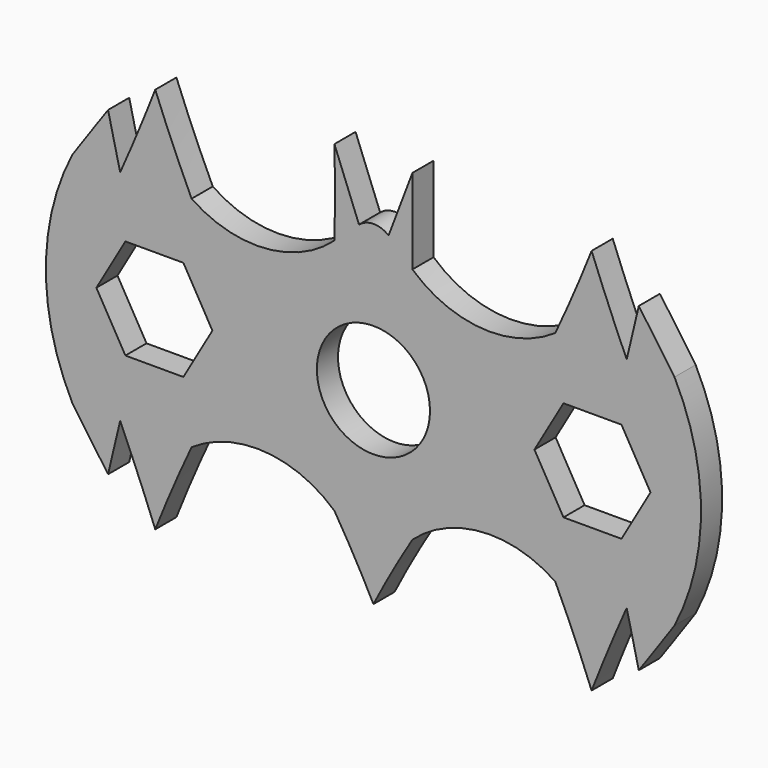
from build123d import *

# Parameters (mm, degrees)
F0_R     = 10.873019
F1_DEPTH = 5.08


with BuildPart() as f1:
    # F0 (on Front) → F1 (new body)
    with BuildSketch(Plane.XZ):
        with BuildLine():
            ThreePointArc((-7.49769, -22.859156), (-3.613745, -29.461579), (0, -36.215678))
            ThreePointArc((0, -36.215678), (3.613745, -29.461579), (7.49769, -22.859156))
            ThreePointArc((7.49769, -22.859156), (20.904776, -17.20558), (34.945954, -21.021102))
            ThreePointArc((34.945954, -21.021102), (38.568356, -29.052358), (41.93056, -37.195973))
            ThreePointArc((41.93056, -37.195973), (45.206649, -29.069506), (48.670087, -21.021102))
            ThreePointArc((48.670087, -21.021102), (49.842619, -25.920576), (50.998289, -30.824054))
            ThreePointArc((50.998289, -30.824054), (54.439372, -25.929613), (57.860356, -21.021102))
            ThreePointArc((57.860356, -21.021102), (62.956488, 0), (57.860356, 21.021102))
            ThreePointArc((57.860356, 21.021102), (54.439372, 25.929613), (50.998289, 30.824054))
            ThreePointArc((50.998289, 30.824054), (49.842619, 25.920576), (48.670087, 21.021102))
            ThreePointArc((48.670087, 21.021102), (45.206649, 29.069506), (41.93056, 37.195973))
            ThreePointArc((41.93056, 37.195973), (38.568356, 29.052358), (34.945954, 21.021102))
            ThreePointArc((34.945954, 21.021102), (20.904776, 17.20558), (7.49769, 22.859156))
            Line((7.49769, 22.859156), (7.49769, 39.19407))
            Line((7.49769, 39.19407), (2.909613, 27.099166))
            ThreePointArc((2.909613, 27.099166), (0.068039, 28.124589), (-2.773535, 27.099166))
            Line((-2.773535, 27.099166), (-7.49769, 39.19407))
            ThreePointArc((-7.49769, 39.19407), (-7.397431, 31.026613), (-7.49769, 22.859156))
            ThreePointArc((-7.49769, 22.859156), (-20.904776, 17.20558), (-34.945954, 21.021102))
            ThreePointArc((-34.945954, 21.021102), (-38.568356, 29.052358), (-41.93056, 37.195973))
            ThreePointArc((-41.93056, 37.195973), (-45.206649, 29.069506), (-48.670087, 21.021102))
            ThreePointArc((-48.670087, 21.021102), (-49.842619, 25.920576), (-50.998289, 30.824054))
            ThreePointArc((-50.998289, 30.824054), (-54.439372, 25.929613), (-57.860356, 21.021102))
            ThreePointArc((-57.860356, 21.021102), (-62.956488, 0), (-57.860356, -21.021102))
            ThreePointArc((-57.860356, -21.021102), (-54.439372, -25.929613), (-50.998289, -30.824054))
            ThreePointArc((-50.998289, -30.824054), (-49.842619, -25.920576), (-48.670087, -21.021102))
            ThreePointArc((-48.670087, -21.021102), (-45.206649, -29.069506), (-41.93056, -37.195973))
            ThreePointArc((-41.93056, -37.195973), (-38.568356, -29.052358), (-34.945954, -21.021102))
            ThreePointArc((-34.945954, -21.021102), (-20.904776, -17.20558), (-7.49769, -22.859156))
        make_face()
        Polygon((-47.67337, 9.656313), (-36.52322, 9.656313), (-30.948145, 0), (-36.52322, -9.656313), (-47.67337, -9.656313), (-53.248445, 0), align=None, mode=Mode.SUBTRACT)
        Circle(F0_R, mode=Mode.SUBTRACT)
        Polygon((30.948145, 0), (36.52322, 9.656313), (47.67337, 9.656313), (53.248445, 0), (47.67337, -9.656313), (36.52322, -9.656313), align=None, mode=Mode.SUBTRACT)
    extrude(amount=F1_DEPTH)


solid = f1.part
